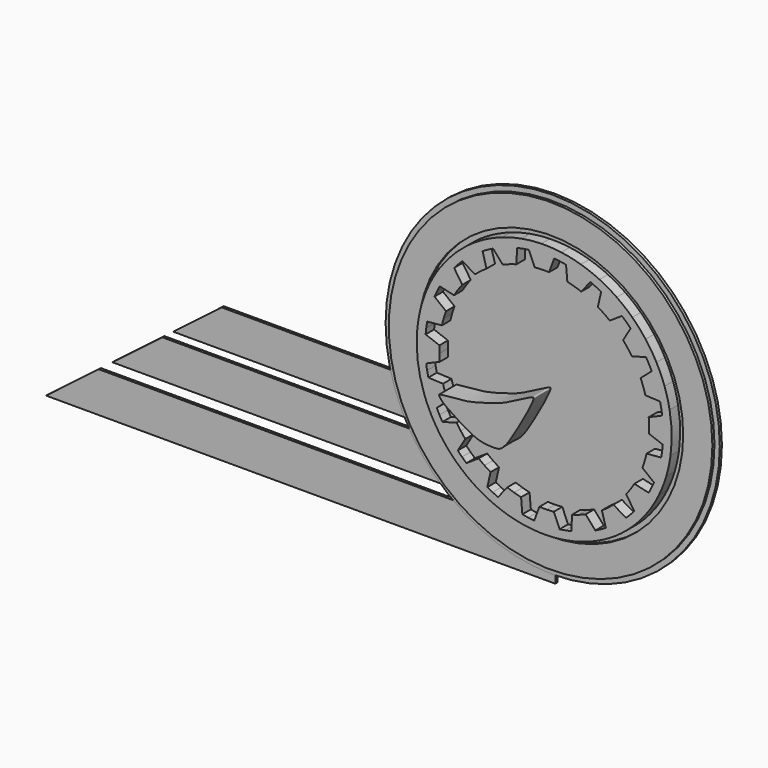
from build123d import *

# Parameters (mm, degrees)
F0_R     = 3.175
F1_DEPTH = 6.35
F2_R     = 400.05
F3_DEPTH = 6.35
F4_R     = 387.35
F4_R_2   = 317.5
F5_DEPTH = 6.35
F7_DEPTH = 25.4
F9_DEPTH = 50.8


with BuildPart() as f1:
    # F0 (on Front) → F1 (new body)
    with BuildSketch(Plane.XZ):
        Polygon((-1219.2, 0), (0, 0), (0, 96.52), (0, 121.92), (0, 213.36), (0, 233.68), (0, 322.58), (-231.3026786479, 322.58), (-798.7739842856, 322.58), (-914.6394216872, 233.68), (-231.3026786479, 233.68), (-231.3026786479, 213.36), (-941.1229502361, 213.36), (-1060.2988287064, 121.92), (-231.3026786479, 121.92), (-231.3026786479, 96.52), (-1093.4032393925, 96.52), align=None)
        with Locations((-44.45, 44.45)):
            Circle(F0_R, mode=Mode.SUBTRACT)
        with Locations((-278.13, 278.13)):
            Circle(F0_R, mode=Mode.SUBTRACT)
    extrude(amount=F1_DEPTH)


with BuildPart() as f3:
    # F2 (on Front) → F3 (new body)
    with BuildSketch(Plane.XZ):
        with Locations((-6.3460199162, 417.6114201546)):
            Circle(F2_R)
    extrude(amount=F3_DEPTH)


with BuildPart() as f5:
    # F4 (on face) → F5 (new body)
    with BuildSketch(Plane.XZ.offset(6.35)):
        with Locations((-6.3460199162, 417.6114201546)):
            Circle(F4_R)
        with Locations((-6.3460199162, 417.6114201546)):
            Circle(F4_R_2, mode=Mode.SUBTRACT)
    extrude(amount=F5_DEPTH)


with BuildPart() as f7:
    # F6 (on face) → F7 (new body)
    with BuildSketch(Plane.XZ.offset(6.35)):
        with BuildLine():
            ThreePointArc((-311.4159718809, 410.6382491284), (-309.9284343378, 386.7242325226), (-306.5692102585, 363.0006456996))
            Line((-306.5692102585, 363.0006456996), (-286.6247849275, 366.6285483681))
            ThreePointArc((-286.6247849275, 366.6285483681), (-287.8203060029, 373.7062313514), (-288.8371284927, 380.8117882668))
            Line((-288.8371284927, 380.8117882668), (-256.4533352852, 394.6266770363))
            ThreePointArc((-256.4533352852, 394.6266770363), (-257.0958028387, 403.2408258178), (-257.4416717335, 411.8719728154))
            ThreePointArc((-257.4416717335, 411.8719728154), (-257.4905328593, 420.5099087018), (-257.2423284211, 429.1444161194))
            Line((-257.2423284211, 429.1444161194), (-290.223521126, 441.4652173101))
            ThreePointArc((-290.223521126, 441.4652173101), (-289.5324231203, 448.609813212), (-288.6615395634, 455.7347292735))
            Line((-288.6615395634, 455.7347292735), (-308.7508988167, 458.4475551705))
            ThreePointArc((-308.7508988167, 458.4475551705), (-311.022651724, 434.5952576524), (-311.4159718809, 410.6382491284))
        make_face()
        with BuildLine():
            ThreePointArc((-298.6396140098, 505.2513400411), (-304.6147192713, 482.0480843368), (-308.7508988167, 458.4475551705))
            Line((-308.7508988167, 458.4475551705), (-288.6615395634, 455.7347292735))
            ThreePointArc((-288.6615395634, 455.7347292735), (-287.6114233499, 462.8354421245), (-286.3827411634, 469.9074437604))
            Line((-286.3827411634, 469.9074437604), (-251.3148882059, 473.0390413031))
            ThreePointArc((-251.3148882059, 473.0390413031), (-249.2639927936, 481.4301170264), (-246.9257625565, 489.7457049879))
            ThreePointArc((-246.9257625565, 489.7457049879), (-244.3029632634, 497.9759691183), (-241.398697285, 506.1111742733))
            Line((-241.398697285, 506.1111742733), (-268.9583385699, 528.0207015722))
            ThreePointArc((-268.9583385699, 528.0207015722), (-266.0932637566, 534.6020550325), (-263.0632841284, 541.1091350616))
            Line((-263.0632841284, 541.1091350616), (-281.3310908495, 549.8971392239))
            ThreePointArc((-281.3310908495, 549.8971392239), (-290.8624215433, 527.9142664961), (-298.6396140098, 505.2513400411))
        make_face()
        with BuildLine():
            ThreePointArc((-257.2515226197, 591.2856249721), (-270.1043857516, 571.0644265042), (-281.3310908495, 549.8971392239))
            Line((-281.3310908495, 549.8971392239), (-263.0632841284, 541.1091350616))
            ThreePointArc((-263.0632841284, 541.1091350616), (-259.8703233175, 547.5378105328), (-256.5164084278, 553.8840000956))
            Line((-256.5164084278, 553.8840000956), (-222.1971814999, 546.0257638249))
            ThreePointArc((-222.1971814999, 546.0257638249), (-217.6536790542, 553.3723895342), (-212.8602319523, 560.5584307718))
            ThreePointArc((-212.8602319523, 560.5584307718), (-207.8225101092, 567.5753875494), (-202.5464723797, 574.4149598799))
            Line((-202.5464723797, 574.4149598799), (-221.9868325364, 603.7685561025))
            ThreePointArc((-221.9868325364, 603.7685561025), (-217.2282344004, 609.1424383894), (-212.3357542179, 614.3947240555))
            Line((-212.3357542179, 614.3947240555), (-226.9938282057, 628.397675406))
            ThreePointArc((-226.9938282057, 628.397675406), (-242.8517436291, 610.4360642147), (-257.2515226197, 591.2856249721))
        make_face()
        with BuildLine():
            ThreePointArc((-191.3030524635, 660.3194686762), (-209.7755456713, 645.0597192402), (-226.9938282057, 628.397675406))
            Line((-226.9938282057, 628.397675406), (-212.3357542179, 614.3947240555))
            ThreePointArc((-212.3357542179, 614.3947240555), (-207.3124980605, 619.5220786006), (-202.1616550252, 624.5212468393))
            Line((-202.1616550252, 624.5212468393), (-171.9504591746, 606.4423956729))
            ThreePointArc((-171.9504591746, 606.4423956729), (-165.3590993713, 612.0254324569), (-158.5796514049, 617.3785071861))
            ThreePointArc((-158.5796514049, 617.3785071861), (-151.6201343256, 622.4952879916), (-144.4887801784, 627.3697225038))
            Line((-144.4887801784, 627.3697225038), (-153.9069013057, 661.2940531331))
            ThreePointArc((-153.9069013057, 661.2940531331), (-147.7205845876, 664.9344312065), (-141.4445138991, 668.4177921936))
            Line((-141.4445138991, 668.4177921936), (-151.0580207428, 686.2649842899))
            ThreePointArc((-151.0580207428, 686.2649842899), (-171.6902376456, 674.0828422845), (-191.3030524635, 660.3194686762))
        make_face()
        with BuildLine():
            ThreePointArc((-107.2496992902, 705.5953575446), (-129.5336062333, 696.7907877361), (-151.0580207428, 686.2649842899))
            Line((-151.0580207428, 686.2649842899), (-141.4445138991, 668.4177921936))
            ThreePointArc((-141.4445138991, 668.4177921936), (-135.082673707, 671.7419246254), (-128.6391029303, 674.9047181216))
            Line((-128.6391029303, 674.9047181216), (-105.4932205008, 648.3749359744))
            ThreePointArc((-105.4932205008, 648.3749359744), (-97.4992115622, 651.6478772933), (-89.3973823332, 654.6439892626))
            ThreePointArc((-89.3973823332, 654.6439892626), (-81.1973160394, 657.35972794), (-72.9087121054, 659.7918810217))
            Line((-72.9087121054, 659.7918810217), (-71.3826828876, 694.9661962111))
            ThreePointArc((-71.3826828876, 694.9661962111), (-64.3742073703, 696.5167245011), (-57.3288917027, 697.8901851658))
            Line((-57.3288917027, 697.8901851658), (-60.9567943712, 717.8346104968))
            ThreePointArc((-60.9567943712, 717.8346104968), (-84.3436876098, 712.6244106147), (-107.2496992902, 705.5953575446))
        make_face()
        with BuildLine():
            ThreePointArc((-13.3191909424, 722.6813721192), (-37.2332075482, 721.1938345762), (-60.9567943712, 717.8346104968))
            Line((-60.9567943712, 717.8346104968), (-57.3288917027, 697.8901851658))
            ThreePointArc((-57.3288917027, 697.8901851658), (-50.2512087194, 699.0857062412), (-43.145651804, 700.102528731))
            Line((-43.145651804, 700.102528731), (-29.3307630345, 667.7187355235))
            ThreePointArc((-29.3307630345, 667.7187355235), (-20.716614253, 668.3612030771), (-12.0854672554, 668.7070719718))
            ThreePointArc((-12.0854672554, 668.7070719718), (-3.447531369, 668.7559330977), (5.1869760486, 668.5077286594))
            Line((5.1869760486, 668.5077286594), (17.5077772393, 701.4889213643))
            ThreePointArc((17.5077772393, 701.4889213643), (24.6523731411, 700.7978233587), (31.7772892027, 699.9269398017))
            Line((31.7772892027, 699.9269398017), (34.4901150997, 720.0162990551))
            ThreePointArc((34.4901150997, 720.0162990551), (10.6378175816, 722.2880519623), (-13.3191909424, 722.6813721192))
        make_face()
        with BuildLine():
            ThreePointArc((81.2938999703, 709.9050142482), (58.090644266, 715.8801195096), (34.4901150997, 720.0162990551))
            Line((34.4901150997, 720.0162990551), (31.7772892027, 699.9269398017))
            ThreePointArc((31.7772892027, 699.9269398017), (38.8780020536, 698.8768235882), (45.9500036896, 697.6481414017))
            Line((45.9500036896, 697.6481414017), (49.0816012322, 662.5802884442))
            ThreePointArc((49.0816012322, 662.5802884442), (57.4726769556, 660.529393032), (65.7882649171, 658.1911627948))
            ThreePointArc((65.7882649171, 658.1911627948), (74.0185290475, 655.5683635018), (82.1537342025, 652.6640975233))
            Line((82.1537342025, 652.6640975233), (104.0632615014, 680.2237388082))
            ThreePointArc((104.0632615014, 680.2237388082), (110.6446149616, 677.358663995), (117.1516949908, 674.3286843667))
            Line((117.1516949908, 674.3286843667), (125.9396991531, 692.5964910878))
            ThreePointArc((125.9396991531, 692.5964910878), (103.9568264252, 702.1278217817), (81.2938999703, 709.9050142482))
        make_face()
        with BuildLine():
            ThreePointArc((167.3281849013, 668.516922858), (147.1069864334, 681.3697859899), (125.9396991531, 692.5964910878))
            Line((125.9396991531, 692.5964910878), (117.1516949908, 674.3286843667))
            ThreePointArc((117.1516949908, 674.3286843667), (123.580370462, 671.1357235558), (129.9265600248, 667.7818086662))
            Line((129.9265600248, 667.7818086662), (122.0683237541, 633.4625817382))
            ThreePointArc((122.0683237541, 633.4625817382), (129.4149494634, 628.9190792925), (136.600990701, 624.1256321906))
            ThreePointArc((136.600990701, 624.1256321906), (143.6179474786, 619.0879103475), (150.4575198091, 613.811872618))
            Line((150.4575198091, 613.811872618), (179.8111160317, 633.2522327747))
            ThreePointArc((179.8111160317, 633.2522327747), (185.1849983186, 628.4936346387), (190.4372839847, 623.6011544562))
            Line((190.4372839847, 623.6011544562), (204.4402353352, 638.259228444))
            ThreePointArc((204.4402353352, 638.259228444), (186.4786241439, 654.1171438674), (167.3281849013, 668.516922858))
        make_face()
        with BuildLine():
            ThreePointArc((236.3620286054, 602.5684527018), (221.1022791694, 621.0409459097), (204.4402353352, 638.259228444))
            Line((204.4402353352, 638.259228444), (190.4372839847, 623.6011544562))
            ThreePointArc((190.4372839847, 623.6011544562), (195.5646385298, 618.5778982989), (200.5638067685, 613.4270552635))
            Line((200.5638067685, 613.4270552635), (182.4849556021, 583.2158594129))
            ThreePointArc((182.4849556021, 583.2158594129), (188.0679923861, 576.6244996097), (193.4210671153, 569.8450516432))
            ThreePointArc((193.4210671153, 569.8450516432), (198.5378479208, 562.885534564), (203.412282433, 555.7541804167))
            Line((203.412282433, 555.7541804167), (237.3366130623, 565.1723015441))
            ThreePointArc((237.3366130623, 565.1723015441), (240.9769911357, 558.985984826), (244.4603521228, 552.7099141374))
            Line((244.4603521228, 552.7099141374), (262.3075442191, 562.3234209811))
            ThreePointArc((262.3075442191, 562.3234209811), (250.1254022137, 582.9556378839), (236.3620286054, 602.5684527018))
        make_face()
        with BuildLine():
            ThreePointArc((281.6379174738, 518.5150995285), (272.8333476653, 540.7990064716), (262.3075442191, 562.3234209811))
            Line((262.3075442191, 562.3234209811), (244.4603521228, 552.7099141374))
            ThreePointArc((244.4603521228, 552.7099141374), (247.7844845545, 546.3480739453), (250.9472780508, 539.9045031687))
            Line((250.9472780508, 539.9045031687), (224.4174959036, 516.7586207391))
            ThreePointArc((224.4174959036, 516.7586207391), (227.6904372225, 508.7646118005), (230.6865491918, 500.6627825716))
            ThreePointArc((230.6865491918, 500.6627825716), (233.4022878692, 492.4627162777), (235.8344409509, 484.1741123437))
            Line((235.8344409509, 484.1741123437), (271.0087561403, 482.6480831259))
            ThreePointArc((271.0087561403, 482.6480831259), (272.5592844303, 475.6396076087), (273.932745095, 468.5942919411))
            Line((273.932745095, 468.5942919411), (293.877170426, 472.2221946096))
            ThreePointArc((293.877170426, 472.2221946096), (288.6669705439, 495.6090878481), (281.6379174738, 518.5150995285))
        make_face()
        with BuildLine():
            Line((275.9694997309, 379.4881110357), (296.0588589843, 376.7752851387))
            ThreePointArc((296.0588589843, 376.7752851387), (298.3306118915, 400.6275826568), (298.7239320484, 424.5845911808))
            ThreePointArc((298.7239320484, 424.5845911808), (297.2363945054, 448.4986077865), (293.877170426, 472.2221946096))
            Line((293.877170426, 472.2221946096), (273.932745095, 468.5942919411))
            ThreePointArc((273.932745095, 468.5942919411), (275.1282661704, 461.5166089578), (276.1450886602, 454.4110520424))
            Line((276.1450886602, 454.4110520424), (243.7612954527, 440.5961632729))
            ThreePointArc((243.7612954527, 440.5961632729), (244.4037630063, 431.9820144914), (244.749631901, 423.3508674937))
            ThreePointArc((244.749631901, 423.3508674937), (244.7984930268, 414.7129316073), (244.5502885886, 406.0784241897))
            Line((244.5502885886, 406.0784241897), (277.5314812935, 393.757622999))
            ThreePointArc((277.5314812935, 393.757622999), (276.8403832879, 386.6130270972), (275.9694997309, 379.4881110357))
        make_face()
        with BuildLine():
            Line((250.3712442959, 294.1137052475), (268.639051017, 285.3257010852))
            ThreePointArc((268.639051017, 285.3257010852), (278.1703817109, 307.3085738131), (285.9475741774, 329.971500268))
            ThreePointArc((285.9475741774, 329.971500268), (291.9226794388, 353.1747559723), (296.0588589843, 376.7752851387))
            Line((296.0588589843, 376.7752851387), (275.9694997309, 379.4881110357))
            ThreePointArc((275.9694997309, 379.4881110357), (274.9193835174, 372.3873981847), (273.6907013309, 365.3153965488))
            Line((273.6907013309, 365.3153965488), (238.6228483734, 362.1837990061))
            ThreePointArc((238.6228483734, 362.1837990061), (236.5719529611, 353.7927232827), (234.233722724, 345.4771353212))
            ThreePointArc((234.233722724, 345.4771353212), (231.6109234309, 337.2468711909), (228.7066574525, 329.1116660359))
            Line((228.7066574525, 329.1116660359), (256.2662987374, 307.2021387369))
            ThreePointArc((256.2662987374, 307.2021387369), (253.4012239242, 300.6207852767), (250.3712442959, 294.1137052475))
        make_face()
        with BuildLine():
            Line((199.6437143854, 220.8281162537), (214.3017883732, 206.8251649031))
            ThreePointArc((214.3017883732, 206.8251649031), (230.1597037966, 224.7867760944), (244.5594827872, 243.9372153371))
            ThreePointArc((244.5594827872, 243.9372153371), (257.4123459191, 264.1584138049), (268.639051017, 285.3257010852))
            Line((268.639051017, 285.3257010852), (250.3712442959, 294.1137052475))
            ThreePointArc((250.3712442959, 294.1137052475), (247.178283485, 287.6850297763), (243.8243685953, 281.3388402136))
            Line((243.8243685953, 281.3388402136), (209.5051416674, 289.1970764843))
            ThreePointArc((209.5051416674, 289.1970764843), (204.9616392217, 281.8504507749), (200.1681921198, 274.6644095373))
            ThreePointArc((200.1681921198, 274.6644095373), (195.1304702767, 267.6474527597), (189.8544325472, 260.8078804292))
            Line((189.8544325472, 260.8078804292), (209.2947927039, 231.4542842066))
            ThreePointArc((209.2947927039, 231.4542842066), (204.5361945679, 226.0804019197), (199.6437143854, 220.8281162537))
        make_face()
        with BuildLine():
            Line((128.7524740666, 166.8050481155), (138.3659809103, 148.9578560192))
            ThreePointArc((138.3659809103, 148.9578560192), (158.9981978131, 161.1399980247), (178.611012631, 174.9033716329))
            ThreePointArc((178.611012631, 174.9033716329), (197.0835058388, 190.163121069), (214.3017883732, 206.8251649031))
            Line((214.3017883732, 206.8251649031), (199.6437143854, 220.8281162537))
            ThreePointArc((199.6437143854, 220.8281162537), (194.6204582281, 215.7007617086), (189.4696151927, 210.7015934699))
            Line((189.4696151927, 210.7015934699), (159.2584193421, 228.7804446363))
            ThreePointArc((159.2584193421, 228.7804446363), (152.6670595389, 223.1974078523), (145.8876115724, 217.844333123))
            ThreePointArc((145.8876115724, 217.844333123), (138.9280944931, 212.7275523176), (131.7967403459, 207.8531178053))
            Line((131.7967403459, 207.8531178053), (141.2148614733, 173.928787176))
            ThreePointArc((141.2148614733, 173.928787176), (135.0285447552, 170.2884091026), (128.7524740666, 166.8050481155))
        make_face()
        with BuildLine():
            Line((44.6368518702, 137.3326551433), (48.2647545387, 117.3882298123))
            ThreePointArc((48.2647545387, 117.3882298123), (71.6516477773, 122.5984296944), (94.5576594577, 129.6274827645))
            ThreePointArc((94.5576594577, 129.6274827645), (116.8415664008, 138.432052573), (138.3659809103, 148.9578560192))
            Line((138.3659809103, 148.9578560192), (128.7524740666, 166.8050481155))
            ThreePointArc((128.7524740666, 166.8050481155), (122.3906338745, 163.4809156838), (115.9470630978, 160.3181221876))
            Line((115.9470630978, 160.3181221876), (92.8011806683, 186.8479043347))
            ThreePointArc((92.8011806683, 186.8479043347), (84.8071717297, 183.5749630159), (76.7053425008, 180.5788510465))
            ThreePointArc((76.7053425008, 180.5788510465), (68.5052762069, 177.8631123692), (60.2166722729, 175.4309592875))
            Line((60.2166722729, 175.4309592875), (58.6906430551, 140.256644098))
            ThreePointArc((58.6906430551, 140.256644098), (51.6821675378, 138.7061158081), (44.6368518702, 137.3326551433))
        make_face()
        with BuildLine():
            Line((-44.4693290352, 135.2959005074), (-47.1821549321, 115.2065412541))
            ThreePointArc((-47.1821549321, 115.2065412541), (-23.329857414, 112.9347883468), (0.62715111, 112.5414681899))
            ThreePointArc((0.62715111, 112.5414681899), (24.5411677157, 114.029005733), (48.2647545387, 117.3882298123))
            Line((48.2647545387, 117.3882298123), (44.6368518702, 137.3326551433))
            ThreePointArc((44.6368518702, 137.3326551433), (37.5591688869, 136.1371340679), (30.4536119716, 135.1203115781))
            Line((30.4536119716, 135.1203115781), (16.638723202, 167.5041047856))
            ThreePointArc((16.638723202, 167.5041047856), (8.0245744205, 166.8616372321), (-0.6065725771, 166.5157683373))
            ThreePointArc((-0.6065725771, 166.5157683373), (-9.2445084635, 166.4669072115), (-17.8790158811, 166.7151116497))
            Line((-17.8790158811, 166.7151116497), (-30.1998170718, 133.7339189448))
            ThreePointArc((-30.1998170718, 133.7339189448), (-37.3444129736, 134.4250169505), (-44.4693290352, 135.2959005074))
        make_face()
        with BuildLine():
            Line((-129.8437348233, 160.8941559425), (-138.6317389856, 142.6263492213))
            ThreePointArc((-138.6317389856, 142.6263492213), (-116.6488662577, 133.0950185275), (-93.9859398028, 125.317826061))
            ThreePointArc((-93.9859398028, 125.317826061), (-70.7826840985, 119.3427207996), (-47.1821549321, 115.2065412541))
            Line((-47.1821549321, 115.2065412541), (-44.4693290352, 135.2959005074))
            ThreePointArc((-44.4693290352, 135.2959005074), (-51.5700418861, 136.3460167209), (-58.642043522, 137.5746989074))
            Line((-58.642043522, 137.5746989074), (-61.7736410647, 172.642551865))
            ThreePointArc((-61.7736410647, 172.642551865), (-70.1647167881, 174.6934472772), (-78.4803047496, 177.0316775143))
            ThreePointArc((-78.4803047496, 177.0316775143), (-86.71056888, 179.6544768074), (-94.8457740349, 182.5587427858))
            Line((-94.8457740349, 182.5587427858), (-116.7553013339, 154.9991015009))
            ThreePointArc((-116.7553013339, 154.9991015009), (-123.3366547941, 157.8641763142), (-129.8437348233, 160.8941559425))
        make_face()
        with BuildLine():
            Line((-203.1293238171, 211.6216858529), (-217.1322751677, 196.9636118651))
            ThreePointArc((-217.1322751677, 196.9636118651), (-199.1706639764, 181.1056964417), (-180.0202247338, 166.7059174511))
            ThreePointArc((-180.0202247338, 166.7059174511), (-159.7990262659, 153.8530543192), (-138.6317389856, 142.6263492213))
            Line((-138.6317389856, 142.6263492213), (-129.8437348233, 160.8941559425))
            ThreePointArc((-129.8437348233, 160.8941559425), (-136.2724102945, 164.0871167533), (-142.6185998573, 167.441031643))
            Line((-142.6185998573, 167.441031643), (-134.7603635865, 201.7602585709))
            ThreePointArc((-134.7603635865, 201.7602585709), (-142.1069892959, 206.3037610166), (-149.2930305335, 211.0972081185))
            ThreePointArc((-149.2930305335, 211.0972081185), (-156.3099873111, 216.1349299616), (-163.1495596416, 221.4109676911))
            Line((-163.1495596416, 221.4109676911), (-192.5031558642, 201.9706075344))
            ThreePointArc((-192.5031558642, 201.9706075344), (-197.8770381511, 206.7292056704), (-203.1293238171, 211.6216858529))
        make_face()
        with BuildLine():
            Line((-257.1523919553, 282.5129261717), (-274.9995840516, 272.899419328))
            ThreePointArc((-274.9995840516, 272.899419328), (-262.8174420462, 252.2672024252), (-249.0540684379, 232.6543876073))
            ThreePointArc((-249.0540684379, 232.6543876073), (-233.7943190018, 214.1818943995), (-217.1322751677, 196.9636118651))
            Line((-217.1322751677, 196.9636118651), (-203.1293238171, 211.6216858529))
            ThreePointArc((-203.1293238171, 211.6216858529), (-208.2566783622, 216.6449420103), (-213.255846601, 221.7957850456))
            Line((-213.255846601, 221.7957850456), (-195.1769954346, 252.0069808962))
            ThreePointArc((-195.1769954346, 252.0069808962), (-200.7600322185, 258.5983406995), (-206.1131069478, 265.377788666))
            ThreePointArc((-206.1131069478, 265.377788666), (-211.2298877532, 272.3373057452), (-216.1043222655, 279.4686598924))
            Line((-216.1043222655, 279.4686598924), (-250.0286528948, 270.0505387651))
            ThreePointArc((-250.0286528948, 270.0505387651), (-253.6690309682, 276.2368554832), (-257.1523919553, 282.5129261717))
        make_face()
        with BuildLine():
            Line((-286.6247849275, 366.6285483681), (-306.5692102585, 363.0006456996))
            ThreePointArc((-306.5692102585, 363.0006456996), (-301.3590103764, 339.613752461), (-294.3299573063, 316.7077407807))
            ThreePointArc((-294.3299573063, 316.7077407807), (-285.5253874978, 294.4238338375), (-274.9995840516, 272.899419328))
            Line((-274.9995840516, 272.899419328), (-257.1523919553, 282.5129261717))
            ThreePointArc((-257.1523919553, 282.5129261717), (-260.476524387, 288.8747663638), (-263.6393178832, 295.3183371405))
            Line((-263.6393178832, 295.3183371405), (-237.1095357361, 318.4642195701))
            ThreePointArc((-237.1095357361, 318.4642195701), (-240.3824770549, 326.4582285087), (-243.3785890243, 334.5600577376))
            ThreePointArc((-243.3785890243, 334.5600577376), (-246.0943277016, 342.7601240314), (-248.5264807834, 351.0487279654))
            Line((-248.5264807834, 351.0487279654), (-283.7007959728, 352.5747571832))
            ThreePointArc((-283.7007959728, 352.5747571832), (-285.2513242627, 359.5832327005), (-286.6247849275, 366.6285483681))
        make_face()
    extrude(amount=F7_DEPTH)


with BuildPart() as f9:
    # F8 (on face) → F9 (new body)
    with BuildSketch(Plane.XZ.offset(6.35)):
        with BuildLine():
            add(Edge.make_bspline(
                [(-13.7356789783, 409.1368019581), (-21.4892460812, 407.7247665057), (-70.4932907579, 379.5302316587), (-102.9839461595, 366.8533051987), (-146.9702209644, 354.7293563793), (-175.1257317159, 347.591554814), (-237.5439511204, 344.2337752446), (-237.7972073194, 341.0936954907), (-232.122807453, 326.6774115545), (-172.9873344147, 290.9333902066), (-143.6939345795, 275.7880203516), (-117.4356384842, 272.9191415119), (-92.6151214908, 272.0630643886), (-80.2614672262, 285.2911794413), (-68.095571355, 298.2135015842), (-6.2667212608, 406.6025161319), (-11.9796454355, 409.4566007791), (-13.7356789783, 409.1368019581)],
                knots=[0, 0, 0, 0, 0.0914605474, 0.1683157673, 0.2441595634, 0.316050784, 0.4054648401, 0.4184776992, 0.4597649765, 0.558755768, 0.629388481, 0.6892515031, 0.7470138623, 0.7922495583, 0.8498041432, 0.9792859484, 1, 1, 1, 1], degree=3))
        make_face()
    extrude(amount=F9_DEPTH)


solid = Compound([f1.part, f3.part, f5.part, f7.part, f9.part])
